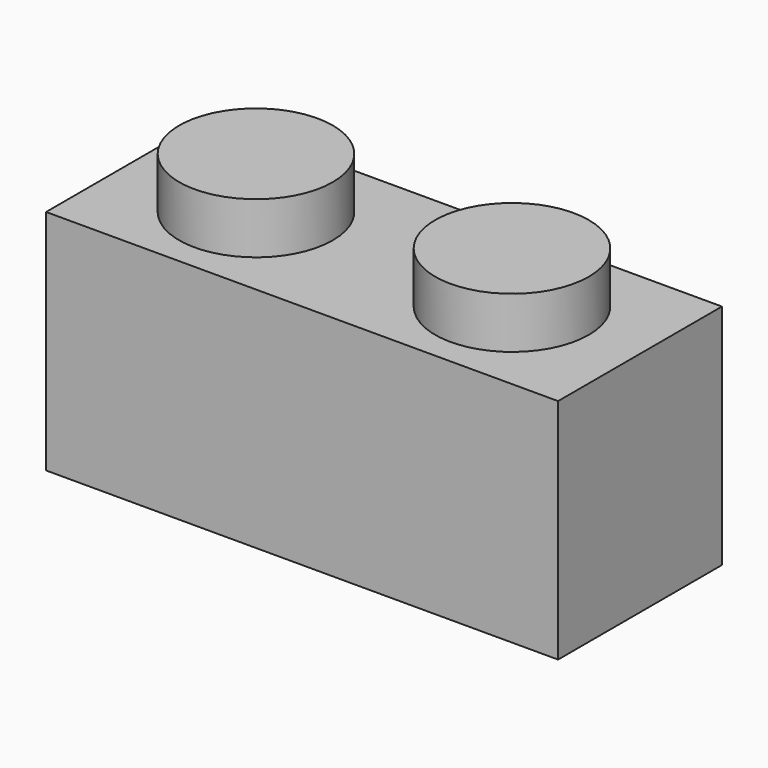
from build123d import *

# Parameters (mm, degrees)
F1_DEPTH = 400
F2_R     = 150
F3_DEPTH = 100
F4_W     = 900
F4_H     = 300
F5_DEPTH = 400


with BuildPart() as f1:
    # F0 (on Front) → F1 (new body)
    with BuildSketch(Plane.XZ):
        Polygon((-931.680651, 397.194484), (-1031.680651, 397.194484), (-1031.680651, -2.805516), (-1031.680651, -47.295272), (-31.680651, -47.295272), (-31.680651, 52.704728), (-31.680651, 397.194484), (-131.680651, 397.194484), (-431.680651, 397.194484), (-631.680651, 397.194484), align=None)
    extrude(amount=-F1_DEPTH)

    # F2 (on face) → F3 (join)
    with BuildSketch(Plane.XY.offset(397.194484)):
        with Locations((-781.680651, 200)):
            Circle(F2_R)
        with Locations((-281.680651, 200)):
            Circle(F2_R)
    extrude(amount=F3_DEPTH)

    # F4 (on face) → F5 (cut)
    with BuildSketch(Plane(origin=(0, 0, -47.295272), x_dir=(1, 0, 0), z_dir=(0, 0, -1))):
        with Locations((-531.680651, -200)):
            Rectangle(F4_W, F4_H)
    extrude(amount=-F5_DEPTH, mode=Mode.SUBTRACT)


solid = f1.part
